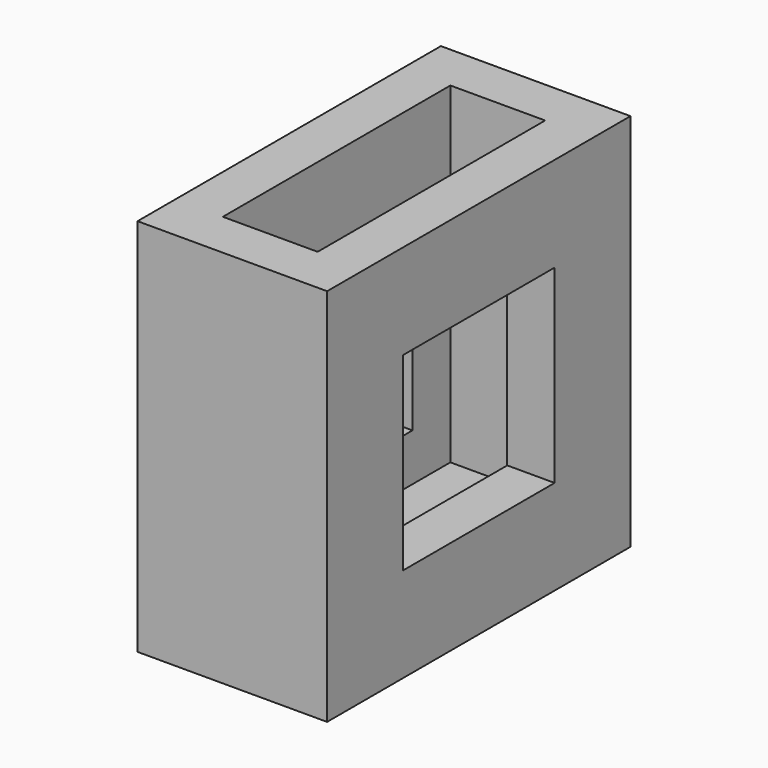
from build123d import *

# Parameters (mm, degrees)
F0_W     = 20
F0_H     = 40
F0_W_2   = 10
F0_H_2   = 30
F1_DEPTH = 40
F2_DEPTH = 5
F4_DEPTH = 60


with BuildPart() as f1:
    # F0 (on Top) → F1 (new body)
    with BuildSketch(Plane.XY):
        Rectangle(F0_W, F0_H)
        Rectangle(F0_W_2, F0_H_2, mode=Mode.SUBTRACT)
    extrude(amount=F1_DEPTH)

    # F0 (on Top) → F2 (join)
    with BuildSketch(Plane.XY):
        Rectangle(F0_W_2, F0_H_2)
    extrude(amount=F2_DEPTH)

    # F3 (on face) → F4 (cut)
    with BuildSketch(Plane.YZ.offset(10)):
        Polygon((-10, 10), (0, 10), (10, 10), (10, 30), (-10, 30), align=None)
    extrude(amount=-F4_DEPTH, mode=Mode.SUBTRACT)


solid = f1.part
